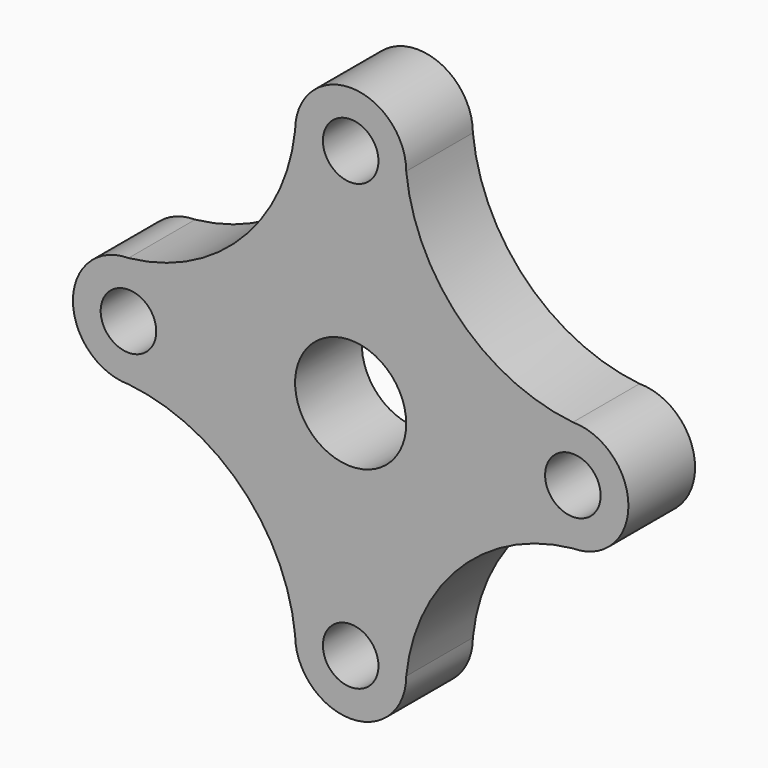
from build123d import *

# Parameters (mm, degrees)
F0_R     = 6.35
F0_R_2   = 12.7
F1_DEPTH = 19.05


with BuildPart() as f1:
    # F0 (on Front) → F1 (new body)
    with BuildSketch(Plane.XZ):
        with BuildLine():
            ThreePointArc((-63.5, 101.6), (-75.826668, 75.826668), (-101.6, 63.5))
            ThreePointArc((-101.6, 63.5), (-114.3, 50.8), (-101.6, 38.1))
            ThreePointArc((-101.6, 38.1), (-75.781764, 25.818236), (-63.5, 0))
            ThreePointArc((-63.5, 0), (-50.8, -12.7), (-38.1, 0))
            ThreePointArc((-38.1, 0), (-25.818224, 25.818224), (0, 38.1))
            ThreePointArc((0, 38.1), (12.7, 50.8), (0, 63.5))
            ThreePointArc((0, 63.5), (-25.818214, 75.781786), (-38.1, 101.6))
            ThreePointArc((-38.1, 101.6), (-50.8, 114.3), (-63.5, 101.6))
        make_face()
        with Locations((-101.6, 50.8)):
            Circle(F0_R, mode=Mode.SUBTRACT)
        with Locations((-50.8, 0)):
            Circle(F0_R, mode=Mode.SUBTRACT)
        with Locations((-50.8, 50.8)):
            Circle(F0_R_2, mode=Mode.SUBTRACT)
        with Locations((0, 50.8)):
            Circle(F0_R, mode=Mode.SUBTRACT)
        with Locations((-50.8, 101.6)):
            Circle(F0_R, mode=Mode.SUBTRACT)
    extrude(amount=F1_DEPTH)


solid = f1.part
